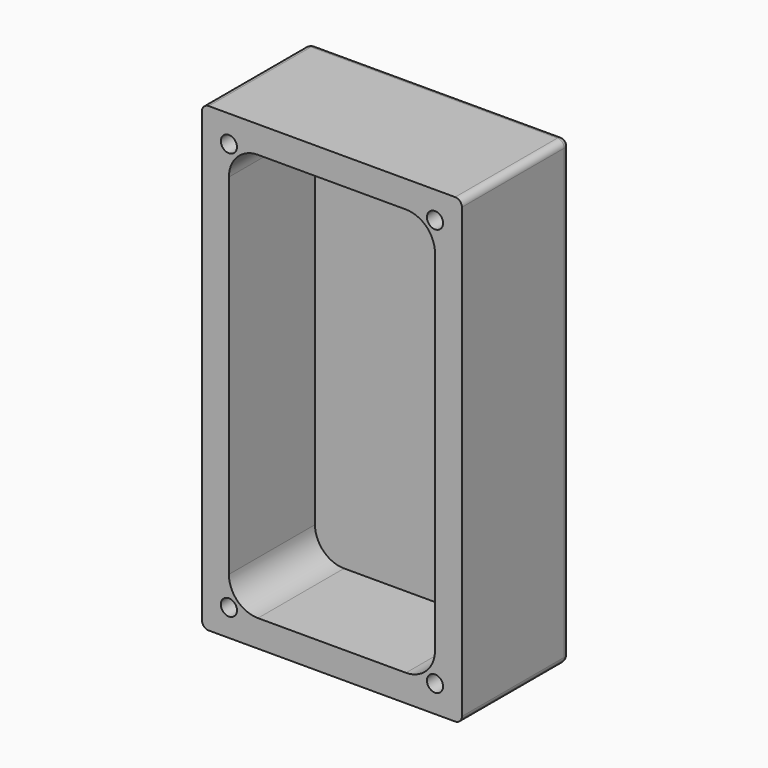
from build123d import *

# Parameters (mm, degrees)
SKETCH001_W   = 38.64
SKETCH001_H   = 68.64
PAD001_DEPTH  = 20
THICKNESS_T   = -4
FILLET002_R   = 1
PAD006_DEPTH  = 16
SKETCH013_R   = 1.2
HOLE002_DEPTH = 25
FILLET004_R   = 1
SKETCH018_W   = 12
SKETCH018_H   = 40
PAD008_DEPTH  = 4
SKETCH019_W   = 20
SKETCH019_H   = 40
PAD009_DEPTH  = 4
SKETCH020_W   = 20
SKETCH020_H   = 8
PAD010_DEPTH  = 4


with BuildPart() as part:
    # Sketch001 → Pad001 (new body)
    with BuildSketch(Plane.XZ):
        with Locations((-0.32, -7.9)):
            Rectangle(SKETCH001_W, SKETCH001_H)
    extrude(amount=PAD001_DEPTH)

    # Thickness
    thickness_openings = [part.faces().sort_by_distance(p)[0] for p in [
        (-0.32, -20, -7.9),
    ]]
    offset(amount=THICKNESS_T, openings=thickness_openings)

    # Fillet002
    fillet002_edges = [part.edges().sort_by_distance(p)[0] for p in [
        (-19.64, -10, 26.42),
        (19, -10, 26.42),
        (19, -10, -42.22),
        (-19.64, -10, -42.22),
        (-19.64, 0, -7.9),
        (-0.32, 0, -42.22),
        (19, 0, -7.9),
        (-0.32, 0, 26.42),
    ]]
    fillet(fillet002_edges, radius=FILLET002_R)

    # Sketch012 (on Face23 of Fillet002) → Pad006 (join)
    with BuildSketch(Plane.XZ.offset(4)):
        with BuildLine():
            ThreePointArc((-11.32, 22.42), (-14.374701, 21.154701), (-15.64, 18.1))
            Line((-15.64, 22.42), (-15.64, 18.1))
            Line((-11.32, 22.42), (-15.64, 22.42))
        make_face()
        with BuildLine():
            ThreePointArc((15, 18.1), (13.734701, 21.154701), (10.68, 22.42))
            Line((10.68, 22.42), (15, 22.42))
            Line((15, 22.42), (15, 18.1))
        make_face()
        with BuildLine():
            ThreePointArc((10.68, -38.22), (13.734701, -36.954701), (15, -33.9))
            Line((15, -38.22), (15, -33.9))
            Line((10.68, -38.22), (15, -38.22))
        make_face()
        with BuildLine():
            Line((-15.64, -38.22), (-15.64, -33.9))
            ThreePointArc((-15.64, -33.9), (-14.374701, -36.954701), (-11.32, -38.22))
            Line((-11.32, -38.22), (-15.64, -38.22))
        make_face()
    extrude(amount=PAD006_DEPTH)

    # Sketch013 (on Face12 of Pad006) → Hole002 (cut)
    with BuildSketch(Plane(origin=(0, 0, 0), x_dir=(-1, 0, 0), z_dir=(0, 1, 0))):
        with Locations((-15, 22.42)):
            Circle(SKETCH013_R)
        with Locations((15.64, 22.42)):
            Circle(SKETCH013_R)
        with Locations((-15, -38.22)):
            Circle(SKETCH013_R)
        with Locations((15.64, -38.22)):
            Circle(SKETCH013_R)
    extrude(amount=-HOLE002_DEPTH, mode=Mode.SUBTRACT)

    # Fillet004
    fillet004_edges = [part.edges().sort_by_distance(p)[0] for p in [
        (-16.84, 0, 22.42),
        (13.8, 0, 22.42),
        (13.8, 0, -38.22),
        (-16.84, 0, -38.22),
    ]]
    fillet(fillet004_edges, radius=FILLET004_R)

    # Sketch018 (on Face4 of Fillet004) → Pad008 (join)
    with BuildSketch(Plane(origin=(0, 0, 0), x_dir=(-1, 0, 0), z_dir=(0, 1, 0))):
        with Locations((0.32, -7.9)):
            Rectangle(SKETCH018_W, SKETCH018_H)
    extrude(amount=PAD008_DEPTH)

    # Sketch019 (on Face40 of Pad008) → Pad009 (join)
    with BuildSketch(Plane(origin=(0, 4, 0), x_dir=(-1, 0, 0), z_dir=(0, 1, 0))):
        with Locations((0.32, -7.9)):
            Rectangle(SKETCH019_W, SKETCH019_H)
    extrude(amount=PAD009_DEPTH)

    # Sketch020 (on Face44 of Pad009) → Pad010 (join)
    with BuildSketch(Plane.XY.offset(12.1)):
        with Locations((-0.32, 4)):
            Rectangle(SKETCH020_W, SKETCH020_H)
    extrude(amount=PAD010_DEPTH)


solid = part.part
